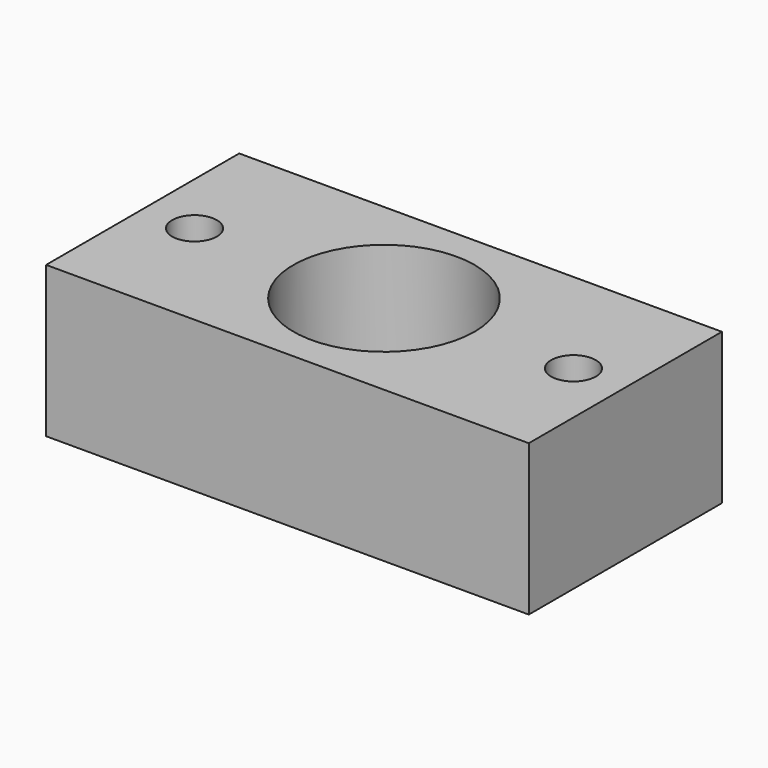
from build123d import *

# Parameters (mm, degrees)
F0_W     = 101.6
F0_H     = 50.8
F1_DEPTH = 31.75
F2_R     = 19.05
F3_DEPTH = 31.751
F4_R     = 4.699
F5_DEPTH = 31.751


with BuildPart() as f1:
    # F0 (on Top) → F1 (new body)
    with BuildSketch(Plane.XY):
        Rectangle(F0_W, F0_H)
    extrude(amount=F1_DEPTH)

    # F2 (on Top) → F3 (cut, through all)
    with BuildSketch(Plane.XY):
        Circle(F2_R)
    extrude(amount=F3_DEPTH, mode=Mode.SUBTRACT)

    # F4 (on Top) → F5 (cut, through all)
    with BuildSketch(Plane.XY):
        with Locations((-39.878, 0)):
            Circle(F4_R)
        with Locations((39.878, 0)):
            Circle(F4_R)
    extrude(amount=F5_DEPTH, mode=Mode.SUBTRACT)


solid = f1.part
